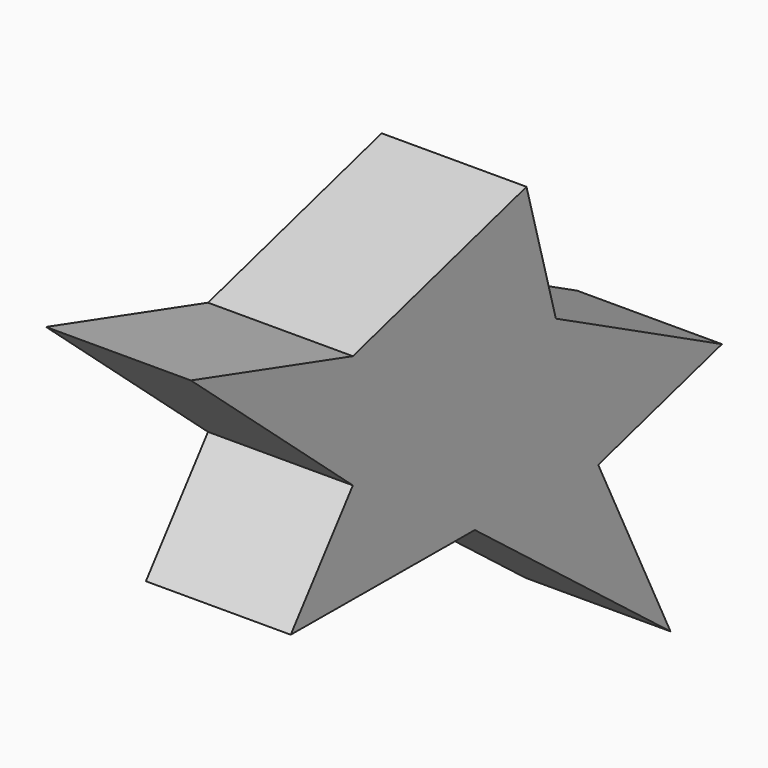
from build123d import *

# Parameters (mm, degrees)
F1_DEPTH = 25.4


with BuildPart() as f1:
    # F0 (on Right) → F1 (new body)
    with BuildSketch(Plane.YZ):
        Polygon((0, -19.950762), (-13.619911, -37.473328), (26.742324, -37.708178), (69.64029, -70.80818), (53.792146, -38.643641), (80.910027, -31.032801), (44.512159, -12.297482), (38.062632, 10.682569), (0, 0), (-35.500221, 10.682569), align=None)
    extrude(amount=-F1_DEPTH)


solid = f1.part
